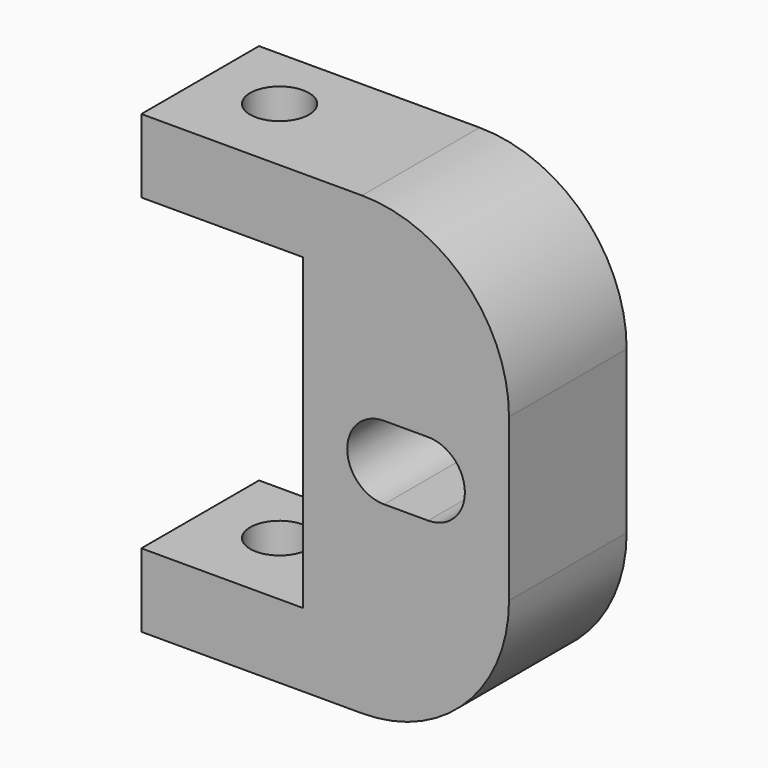
from build123d import *

# Parameters (mm, degrees)
F0_W      = 25
F0_H      = 10
F1_DEPTH  = 15.5
F2_W      = 11
F2_H      = 21
F3_DEPTH  = 10.001
F4_R      = 2.5
F5_DEPTH  = 10.001
F6_R      = 10
F7_R      = 2
F8_DEPTH  = 16
F10_DEPTH = 25


with BuildPart() as f1:
    # F0 (on Top) → F1 (new body, symmetric)
    with BuildSketch(Plane.XY):
        with Locations((12.5, 5)):
            Rectangle(F0_W, F0_H)
    extrude(amount=F1_DEPTH, both=True)

    # F2 (on face) → F3 (cut, through all)
    with BuildSketch(Plane(origin=(0, 10, 0), x_dir=(-1, 0, 0), z_dir=(0, 1, 0))):
        with Locations((-5.5, 0)):
            Rectangle(F2_W, F2_H)
    extrude(amount=-F3_DEPTH, mode=Mode.SUBTRACT)

    # F4 (on face) → F5 (cut, through all)
    with BuildSketch(Plane(origin=(0, 10, 0), x_dir=(-1, 0, 0), z_dir=(0, 1, 0))):
        with Locations((-18, 0)):
            Circle(F4_R)
    extrude(amount=-F5_DEPTH, mode=Mode.SUBTRACT)

    # F6
    f6_edges = [f1.edges().sort_by_distance(p)[0] for p in [
        (25, 5, -15.5),
        (25, 5, 15.5),
    ]]
    fillet(f6_edges, radius=F6_R)

    # F7 (on Top) → F8 (cut, symmetric)
    with BuildSketch(Plane.XY):
        with Locations((5, 5.5)):
            Circle(F7_R)
    extrude(amount=F8_DEPTH, both=True, mode=Mode.SUBTRACT)

    # F9 (on face) → F10 (cut)
    with BuildSketch(Plane.XZ):
        with BuildLine():
            Line((19.5, 2.5), (16.5, 2.5))
            ThreePointArc((16.5, 2.5), (14, 0), (16.5, -2.5))
            Line((16.5, -2.5), (19.5, -2.5))
            ThreePointArc((19.5, -2.5), (22, 0), (19.5, 2.5))
        make_face()
    extrude(amount=-F10_DEPTH, mode=Mode.SUBTRACT)


solid = f1.part
